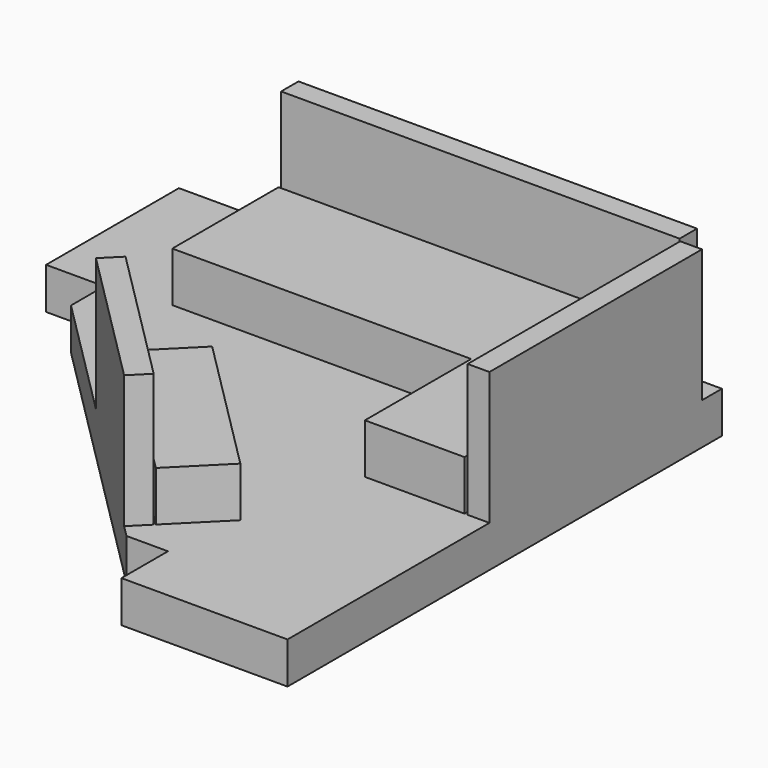
from build123d import *

# Parameters (mm, degrees)
F1_DEPTH = 250
F2_W     = 600
F2_H     = 800
F3_DEPTH = 300
F4_W     = 2400
F4_H     = 130.899072
F4_W_2   = 130.973652
F4_H_2   = 1600
F5_DEPTH = 800
F6_DEPTH = 800


with BuildPart() as f1:
    # F0 (on Top) → F1 (new body)
    with BuildSketch(Plane.XY):
        Polygon((0, -3270), (0, 0), (-3270, 0), (-3270, -1000), (-2920, -1000), (-2920, -1250), (-1250, -2920), (-1000, -2920), (-1000, -3270), align=None)
    extrude(amount=F1_DEPTH)

    # F2 (on face) → F3 (join)
    with BuildSketch(Plane.XY.offset(250)):
        Polygon((-931.801948, -2460.380592), (-1780.330086, -1611.852455), (-2063.172798, -1894.695167), (-1214.644661, -2743.223305), align=None)
        with Locations((-450, -1350)):
            Rectangle(F2_W, F2_H)
        Polygon((-750, -950), (-150, -950), (-150, -150), (-2550, -150), (-2550, -950), align=None)
    extrude(amount=F3_DEPTH)

    # F4 (on face) → F5 (join)
    with BuildSketch(Plane.XY.offset(250)):
        with Locations((-1350, -65.449536)):
            Rectangle(F4_W, F4_H)
        with Locations((-65.486826, -950)):
            Rectangle(F4_W_2, F4_H_2)
        Polygon((-1221.715729, -2750.294373), (-2070.243866, -1901.766235), (-2169.238816, -2000.761184), (-1320.710678, -2849.289322), align=None)
    extrude(amount=F5_DEPTH)

    # F4 (on face) → F6 (join)
    with BuildSketch(Plane.XY.offset(250)):
        with Locations((-1350, -65.449536)):
            Rectangle(F4_W, F4_H)
        with Locations((-65.486826, -950)):
            Rectangle(F4_W_2, F4_H_2)
        Polygon((-1221.715729, -2750.294373), (-2070.243866, -1901.766235), (-2169.238816, -2000.761184), (-1320.710678, -2849.289322), align=None)
    extrude(amount=F6_DEPTH)


solid = f1.part
